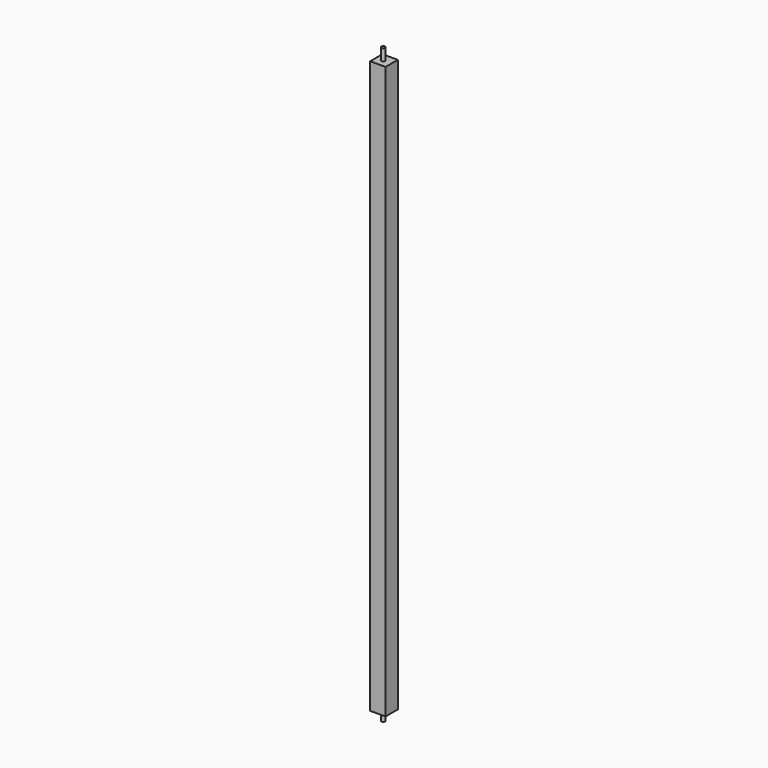
from build123d import *

# Parameters (mm, degrees)
F0_W     = 40
F0_H     = 40
F1_DEPTH = 1490
F2_R     = 4.9
F3_DEPTH = 30
F4_R     = 4.9
F5_DEPTH = 25


with BuildPart() as f1:
    # F0 (on Top) → F1 (new body)
    with BuildSketch(Plane.XY):
        with Locations((1.785715, 0)):
            Rectangle(F0_W, F0_H)
        with Locations((1.785715, 0)):
            Rectangle(F0_W, F0_H)
    extrude(amount=F1_DEPTH)

    # F2 (on face) → F3 (join)
    with BuildSketch(Plane.XY.offset(1490)):
        Circle(F2_R)
    extrude(amount=F3_DEPTH)

    # F4 (on face) → F5 (join)
    with BuildSketch(Plane(origin=(0, 0, 0), x_dir=(1, 0, 0), z_dir=(0, 0, -1))):
        Circle(F4_R)
    extrude(amount=F5_DEPTH)


solid = f1.part
